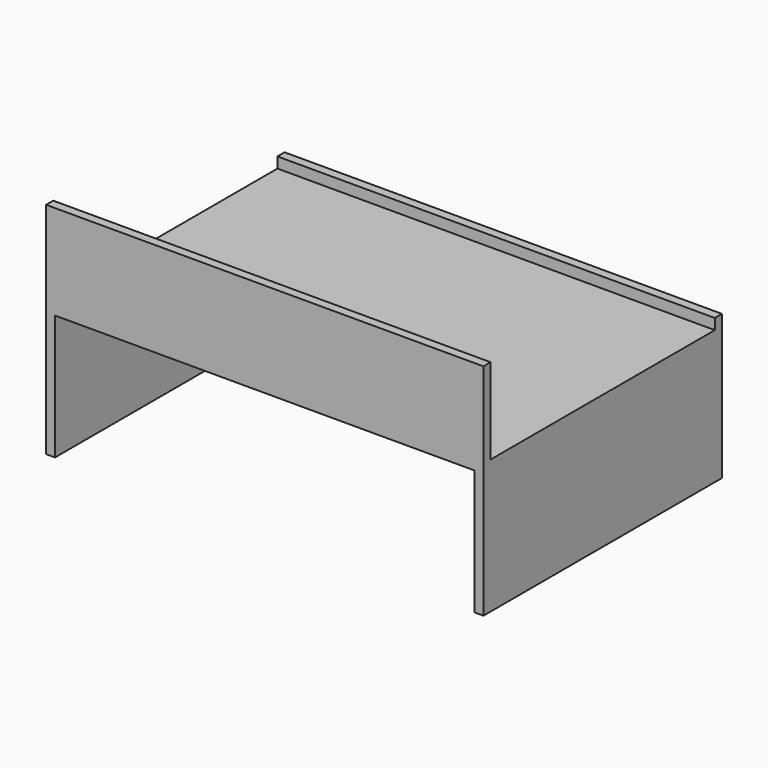
from build123d import *

# Parameters (mm, degrees)
F0_W     = 212.09
F0_H     = 88.9
F0_W_2   = 6.35
F0_H_2   = 7.62
F0_H_3   = 60.96
F1_DEPTH = 311.15
F2_W     = 298.45
F2_H     = 88.9
F3_DEPTH = 151.638


with BuildPart() as f1:
    # F0 (on Right) → F1 (new body)
    with BuildSketch(Plane.YZ):
        with Locations((21.452929, -40.861576)):
            Rectangle(F0_W, F0_H)
        Polygon((-78.242071, 9.938424), (-84.592071, 9.938424), (-84.592071, 3.588424), (127.497929, 3.588424), (127.497929, 9.938424), (121.147929, 9.938424), align=None)
        with Locations((124.322929, 13.748424)):
            Rectangle(F0_W_2, F0_H_2)
        with Locations((-81.417071, 40.418424)):
            Rectangle(F0_W_2, F0_H_3)
    extrude(amount=F1_DEPTH)

    # F2 (on Front) → F3 (cut, symmetric)
    with BuildSketch(Plane.XZ):
        with Locations((155.575, -40.861576)):
            Rectangle(F2_W, F2_H)
    extrude(amount=F3_DEPTH, both=True, mode=Mode.SUBTRACT)


solid = f1.part
